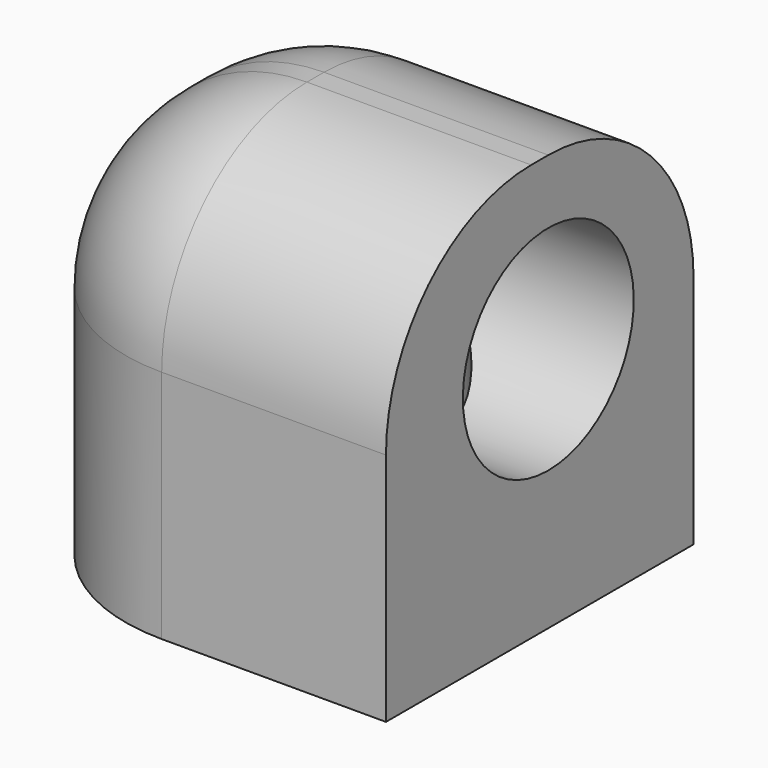
from build123d import *

# Parameters (mm, degrees)
CYLINDER035_R     = 5
CYLINDER035_DEPTH = 15
CYLINDER034_R     = 5
CYLINDER034_DEPTH = 16
BOX017_W          = 19
BOX017_H          = 18
BOX017_DEPTH      = 19.5
FILLET006_R       = 8.5


with BuildPart() as c_top_hole001:
    # Cylinder035 → Cylinder035 (new body)
    with BuildSketch(Plane(origin=(-5, 0, 11.5), x_dir=(0, 0, -1), z_dir=(1, 0, 0))):
        Circle(CYLINDER035_R)
    extrude(amount=CYLINDER035_DEPTH)


with BuildPart() as c_holes:
    # Cylinder034 → Cylinder034 (new body)
    with BuildSketch(Plane.XY):
        Circle(CYLINDER034_R)
    extrude(amount=CYLINDER034_DEPTH)

    # Fusion039: union C-Top-Hole001
    add(c_top_hole001.part)


with BuildPart() as corner:
    # Box017 → Box017 (new body)
    with BuildSketch(Plane(origin=(-9, -9.5, 0), x_dir=(1, 0, 0), z_dir=(0, 0, 1))):
        with Locations((9.5, 9)):
            Rectangle(BOX017_W, BOX017_H)
    extrude(amount=BOX017_DEPTH)

    # Fillet006
    fillet006_edges = [corner.edges().sort_by_distance(p)[0] for p in [
        (-9, -9.5, 9.75),
        (-9, -0.5, 19.5),
        (-9, 8.5, 9.75),
        (0.5, -9.5, 19.5),
        (0.5, 8.5, 19.5),
    ]]
    fillet(fillet006_edges, radius=FILLET006_R)

    # Cut: cut C-Holes
    add(c_holes.part, mode=Mode.SUBTRACT)


solid = corner.part
